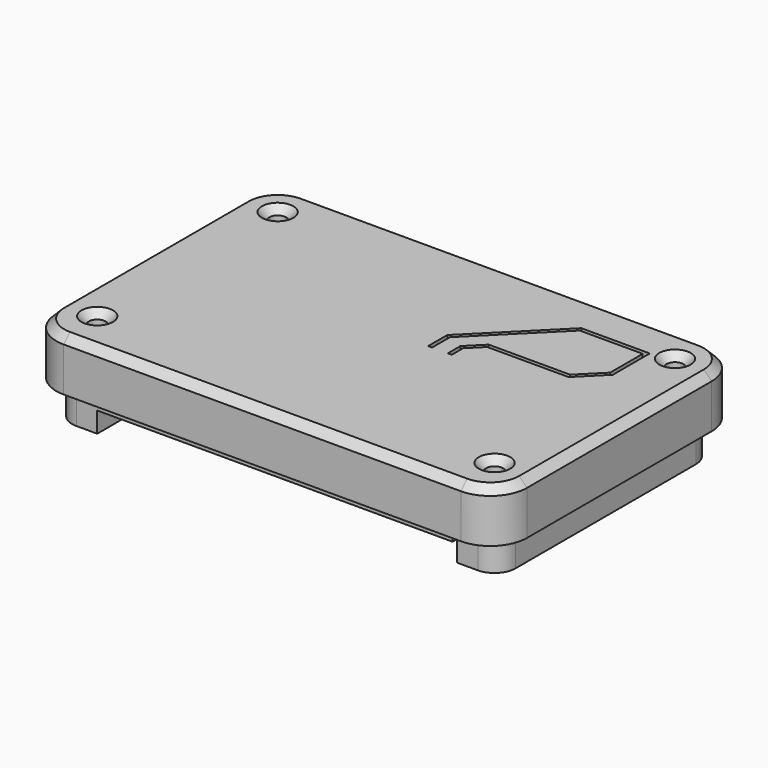
from build123d import *

# Parameters (mm, degrees)
PAD002_DEPTH    = 9.9
POCKET004_DEPTH = 10
PAD003_DEPTH    = 16.4
SKETCH011_W     = 67.75
SKETCH011_H     = 3
PAD004_DEPTH    = 12.5
POCKET005_DEPTH = 13
SKETCH010_R     = 1.6
POCKET006_DEPTH = 19.401
SKETCH012_R     = 2
PAD005_DEPTH    = 14.6
POCKET007_DEPTH = 3
CHAMFER_SIZE    = 1.5
CHAMFER002_SIZE = 1.4
CHAMFER004_SIZE = 0.25


with BuildPart() as part:
    # Sketch006 → Pad002 (new body)
    with BuildSketch(Plane.XY.offset(18)):
        with BuildLine():
            ThreePointArc((-18.5, 103), (-23.449747, 100.949747), (-25.5, 96))
            Line((-25.5, 52), (-25.5, 96))
            ThreePointArc((-25.5, 52), (-23.449747, 47.050253), (-18.5, 45))
            Line((57.25, 45), (-18.5, 45))
            ThreePointArc((57.25, 45), (62.199747, 47.050253), (64.25, 52))
            Line((64.25, 96), (64.25, 52))
            ThreePointArc((64.25, 96), (62.199747, 100.949747), (57.25, 103))
            Line((-18.5, 103), (57.25, 103))
        make_face()
    extrude(amount=-PAD002_DEPTH)

    # Sketch007 → Pocket004 (cut)
    with BuildSketch(Plane.XY.offset(15)):
        with BuildLine():
            ThreePointArc((-18.5, 100), (-21.328427, 98.828427), (-22.5, 96))
            Line((-22.5, 52), (-22.5, 96))
            ThreePointArc((-22.5, 52), (-21.328427, 49.171573), (-18.5, 48))
            Line((57.25, 48), (-18.5, 48))
            ThreePointArc((57.25, 48), (60.078427, 49.171573), (61.25, 52))
            Line((61.25, 96), (61.25, 52))
            ThreePointArc((61.25, 96), (60.078427, 98.828427), (57.25, 100))
            Line((-18.5, 100), (57.25, 100))
        make_face()
    extrude(amount=-POCKET004_DEPTH, mode=Mode.SUBTRACT)

    # Sketch008 → Pad003 (join)
    with BuildSketch(Plane.XY.offset(18)):
        with BuildLine():
            ThreePointArc((-22.5, 52), (-21.328427, 49.171573), (-18.5, 48))
            Line((-14.5, 48), (-18.5, 48))
            Line((-14.5, 100), (-14.5, 48))
            Line((-18.5, 100), (-14.5, 100))
            ThreePointArc((-18.5, 100), (-21.328427, 98.828427), (-22.5, 96))
            Line((-22.5, 52), (-22.5, 96))
        make_face()
        with BuildLine():
            ThreePointArc((61.25, 96), (60.078427, 98.828427), (57.25, 100))
            Line((53.25, 100), (57.25, 100))
            Line((53.25, 49), (53.25, 100))
            Line((57.25, 49), (53.25, 49))
            ThreePointArc((57.25, 49), (60.078427, 50.171573), (61.25, 53))
            Line((61.25, 96), (61.25, 53))
        make_face()
    extrude(amount=-PAD003_DEPTH)

    # Sketch011 → Pad004 (join)
    with BuildSketch(Plane.XY.offset(18)):
        with Locations((19.375, 98.5)):
            Rectangle(SKETCH011_W, SKETCH011_H)
        with Locations((19.375, 49.5)):
            Rectangle(SKETCH011_W, SKETCH011_H)
    extrude(amount=-PAD004_DEPTH)

    # Sketch009 → Pocket005 (cut)
    with BuildSketch(Plane(origin=(0, 108, 0), x_dir=(-1, 0, 0), z_dir=(0, 1, 0))):
        with BuildLine():
            ThreePointArc((-18.65, 14.05), (-19.286396, 13.786396), (-19.55, 13.15))
            Line((-19.55, 2.65), (-19.55, 13.15))
            ThreePointArc((-19.55, 2.65), (-19.286396, 2.013604), (-18.65, 1.75))
            Line((10.15, 1.75), (-18.65, 1.75))
            ThreePointArc((10.15, 1.75), (10.786396, 2.013604), (11.05, 2.65))
            Line((11.05, 13.15), (11.05, 2.65))
            ThreePointArc((11.05, 13.15), (10.786396, 13.786396), (10.15, 14.05))
            Line((-18.65, 14.05), (10.15, 14.05))
        make_face()
    extrude(amount=-POCKET005_DEPTH, mode=Mode.SUBTRACT)

    # Sketch010 → Pocket006 (cut, through all)
    with BuildSketch(Plane.XY.offset(21)):
        with Locations((-18.5, 96)):
            Circle(SKETCH010_R)
        with Locations((-18.5, 53)):
            Circle(SKETCH010_R)
        with Locations((57.25, 53)):
            Circle(SKETCH010_R)
        with Locations((57.25, 96)):
            Circle(SKETCH010_R)
    extrude(amount=-POCKET006_DEPTH, mode=Mode.SUBTRACT)

    # Sketch012 → Pad005 (join)
    with BuildSketch(Plane.XY.offset(18)):
        with Locations((46.5, 88.25)):
            Circle(SKETCH012_R)
    extrude(amount=-PAD005_DEPTH)

    # Sketch013 → Pocket007 (cut)
    with BuildSketch(Plane.XY.offset(18)):
        Polygon((40.5, 94.25), (52.5, 94.25), (52.5, 86.492641), (48.257359, 82.25), (40.5, 82.25), (32.742641, 82.25), (29.742641, 79.25), (29.742641, 76.25), (30.492641, 76.25), (30.492641, 78.93934), (33.053301, 81.5), (48.568019, 81.5), (53.25, 86.181981), (53.25, 95), (40.18934, 95), (25.992641, 80.803301), (25.992641, 76.25), (26.742641, 76.25), (26.742641, 80.492641), align=None)
    extrude(amount=-POCKET007_DEPTH, mode=Mode.SUBTRACT)

    # Chamfer
    chamfer_edges = [part.edges().sort_by_distance(p)[0] for p in [
        (64.25, 74, 18),
    ]]
    chamfer(chamfer_edges, length=CHAMFER_SIZE)

    # Chamfer002
    chamfer002_edges = [part.edges().sort_by_distance(p)[0] for p in [
        (55.65, 96, 18),
        (55.65, 53, 18),
        (-20.1, 53, 18),
        (-20.1, 96, 18),
    ]]
    chamfer(chamfer002_edges, length=CHAMFER002_SIZE)

    # Chamfer004
    chamfer004_edges = [part.edges().sort_by_distance(p)[0] for p in [
        (19.55, 103, 10.625),
    ]]
    chamfer(chamfer004_edges, length=CHAMFER004_SIZE)


solid = part.part
